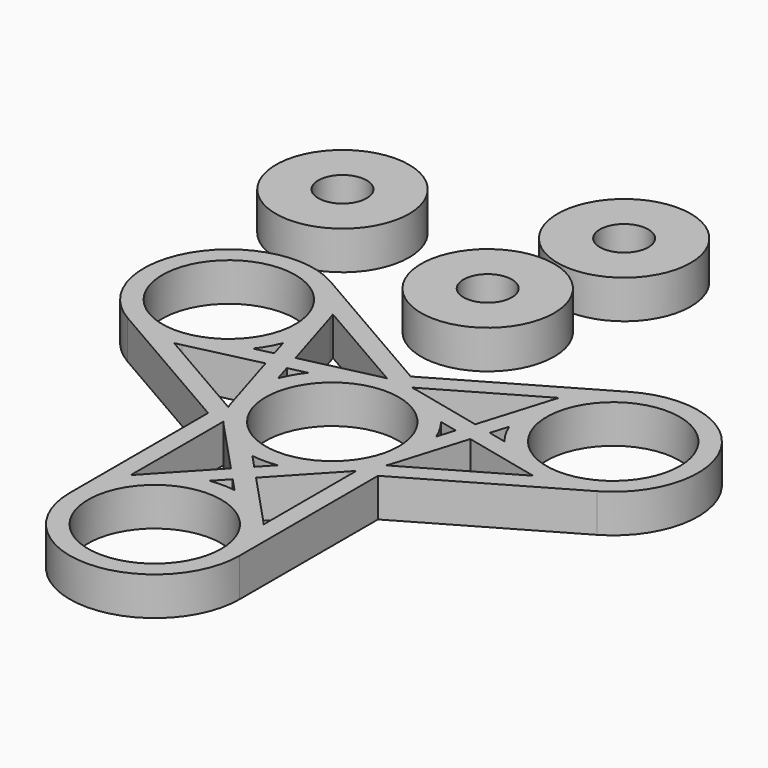
from build123d import *

# Parameters (mm, degrees)
F0_R     = 11
F0_R_2   = 4
F1_DEPTH = 6.35


with BuildPart() as f1:
    # F0 (on Top) → F1 (new body)
    with BuildSketch(Plane.XY):
        with BuildLine():
            Line((24.73325, 30.484239), (0, 16.20449))
            Line((0, 16.20449), (-24.73325, 30.484239))
            ThreePointArc((-24.73325, 30.484239), (-43.903368, 25.347621), (-38.76675, 6.177504))
            Line((-38.76675, 6.177504), (-14.0335, -8.102245))
            Line((-14.0335, -8.102245), (-14.0335, -36.661742))
            ThreePointArc((-14.0335, -36.661742), (0, -50.695242), (14.0335, -36.661742))
            Line((14.0335, -36.661742), (14.0335, -8.102245))
            Line((14.0335, -8.102245), (38.76675, 6.177504))
            ThreePointArc((38.76675, 6.177504), (43.903368, 25.347621), (24.73325, 30.484239))
        make_face()
        with BuildLine():
            Line((-2.076081, -18.330871), (-10.252641, -27.079338))
            ThreePointArc((-10.252641, -27.079338), (-10.635182, -27.505759), (-11, -27.947436))
            Line((-11, -27.947436), (-11, -8.714306))
            ThreePointArc((-11, -8.714306), (-10.635182, -9.155983), (-10.252641, -9.582404))
            Line((-10.252641, -9.582404), (-2.076081, -18.330871))
        make_face(mode=Mode.SUBTRACT)
        with BuildLine():
            Line((-16.91304, 7.367497), (-13.424926, -4.087846))
            ThreePointArc((-13.424926, -4.087846), (-13.246905, -4.632346), (-13.04681, -5.169127))
            Line((-13.04681, -5.169127), (-29.70319, 4.447439))
            ThreePointArc((-29.70319, 4.447439), (-29.138277, 4.542542), (-28.577715, 4.660621))
            Line((-28.577715, 4.660621), (-16.91304, 7.367497))
        make_face(mode=Mode.SUBTRACT)
        with BuildLine():
            Line((-17.798695, 10.276081), (-20.774701, 9.585477))
            ThreePointArc((-20.774701, 9.585477), (-19.596632, 11.314121), (-18.688617, 13.19868))
            Line((-18.688617, 13.19868), (-17.798695, 10.276081))
        make_face(mode=Mode.SUBTRACT)
        with BuildLine():
            Line((-13.061383, 5.132191), (-13.951305, 8.05479))
            Line((-13.951305, 8.05479), (-10.975299, 8.745394))
            ThreePointArc((-10.975299, 8.745394), (-12.153368, 7.01675), (-13.061383, 5.132191))
        make_face(mode=Mode.SUBTRACT)
        with Locations((0, -36.661742)):
            Circle(F0_R, mode=Mode.SUBTRACT)
        with BuildLine():
            ThreePointArc((2.086084, -22.784157), (0, -22.628242), (-2.086084, -22.784157))
            Line((-2.086084, -22.784157), (0, -20.552162))
            Line((0, -20.552162), (2.086084, -22.784157))
        make_face(mode=Mode.SUBTRACT)
        with BuildLine():
            Line((0, -16.10958), (-2.086084, -13.877585))
            ThreePointArc((-2.086084, -13.877585), (0, -14.0335), (2.086084, -13.877585))
            Line((2.086084, -13.877585), (0, -16.10958))
        make_face(mode=Mode.SUBTRACT)
        with BuildLine():
            Line((11, -8.714306), (11, -27.947436))
            ThreePointArc((11, -27.947436), (10.635182, -27.505759), (10.252641, -27.079338))
            Line((10.252641, -27.079338), (2.076081, -18.330871))
            Line((2.076081, -18.330871), (10.252641, -9.582404))
            ThreePointArc((10.252641, -9.582404), (10.635182, -9.155983), (11, -8.714306))
        make_face(mode=Mode.SUBTRACT)
        Circle(F0_R, mode=Mode.SUBTRACT)
        with BuildLine():
            Line((29.70319, 4.447439), (13.04681, -5.169127))
            ThreePointArc((13.04681, -5.169127), (13.246905, -4.632346), (13.424926, -4.087846))
            Line((13.424926, -4.087846), (16.91304, 7.367497))
            Line((16.91304, 7.367497), (28.577715, 4.660621))
            ThreePointArc((28.577715, 4.660621), (29.138277, 4.542542), (29.70319, 4.447439))
        make_face(mode=Mode.SUBTRACT)
        with BuildLine():
            Line((13.951305, 8.05479), (13.061383, 5.132191))
            ThreePointArc((13.061383, 5.132191), (12.153368, 7.01675), (10.975299, 8.745394))
            Line((10.975299, 8.745394), (13.951305, 8.05479))
        make_face(mode=Mode.SUBTRACT)
        with BuildLine():
            Line((17.798695, 10.276081), (18.688617, 13.19868))
            ThreePointArc((18.688617, 13.19868), (19.596632, 11.314121), (20.774701, 9.585477))
            Line((20.774701, 9.585477), (17.798695, 10.276081))
        make_face(mode=Mode.SUBTRACT)
        with Locations((-31.75, 18.330871)):
            Circle(F0_R, mode=Mode.SUBTRACT)
        with BuildLine():
            Line((-14.83696, 10.963374), (-18.325074, 22.418717))
            ThreePointArc((-18.325074, 22.418717), (-18.503095, 22.963217), (-18.70319, 23.499998))
            Line((-18.70319, 23.499998), (-2.04681, 13.883432))
            ThreePointArc((-2.04681, 13.883432), (-2.611723, 13.788329), (-3.172285, 13.67025))
            Line((-3.172285, 13.67025), (-14.83696, 10.963374))
        make_face(mode=Mode.SUBTRACT)
        with BuildLine():
            ThreePointArc((3.172285, 13.67025), (2.611723, 13.788329), (2.04681, 13.883432))
            Line((2.04681, 13.883432), (18.70319, 23.499998))
            ThreePointArc((18.70319, 23.499998), (18.503095, 22.963217), (18.325074, 22.418717))
            Line((18.325074, 22.418717), (14.83696, 10.963374))
            Line((14.83696, 10.963374), (3.172285, 13.67025))
        make_face(mode=Mode.SUBTRACT)
        with Locations((31.75, 18.330871)):
            Circle(F0_R, mode=Mode.SUBTRACT)
        with Locations((-39.543405, 51.544905)):
            Circle(F0_R)
        with Locations((-39.543405, 51.544905)):
            Circle(F0_R_2, mode=Mode.SUBTRACT)
        with Locations((-7.616933, 41.619973)):
            Circle(F0_R)
        with Locations((-7.616933, 41.619973)):
            Circle(F0_R_2, mode=Mode.SUBTRACT)
        with Locations((-2.615711, 63.546404)):
            Circle(F0_R)
        with Locations((-2.615711, 63.546404)):
            Circle(F0_R_2, mode=Mode.SUBTRACT)
    extrude(amount=F1_DEPTH)


solid = f1.part
